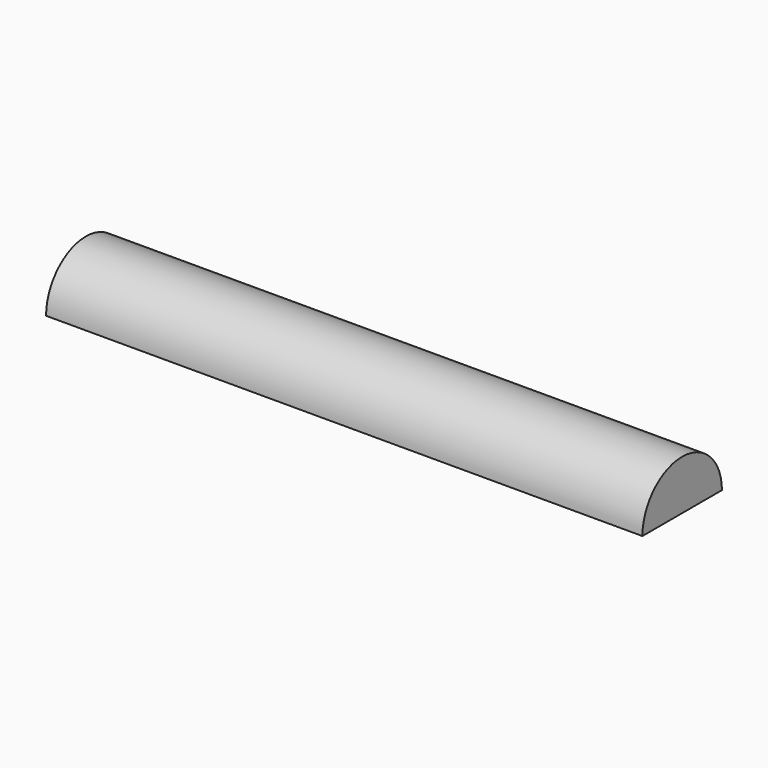
from build123d import *

# Parameters (mm, degrees)
F1_DEPTH = 60


with BuildPart() as f1:
    # F0 (on Right) → F1 (new body)
    with BuildSketch(Plane.YZ):
        with BuildLine():
            Line((-5, 0), (5, 0))
            ThreePointArc((5, 0), (0, 5), (-5, 0))
        make_face()
    extrude(amount=F1_DEPTH)


solid = f1.part
